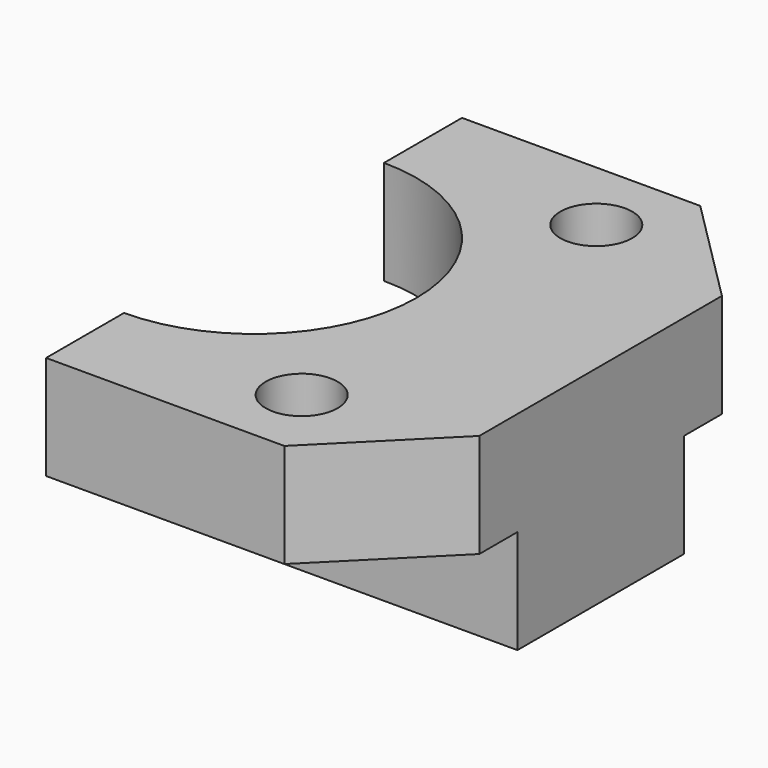
from build123d import *

# Parameters (mm, degrees)
F1_DEPTH = 12.192
F3_DEPTH = 20.321
F4_R     = 9.525
F5_DEPTH = 6.096
F7_D     = 4.2164


with BuildPart() as f1:
    # F0 (on Top) → F1 (new body)
    with BuildSketch(Plane.XY):
        with BuildLine():
            ThreePointArc((0, 6.5786), (6.5786, 0), (0, -6.5786))
            Line((0, -6.5786), (0, -15.24))
            Line((0, -15.24), (13.97, -15.24))
            Line((13.97, -15.24), (20.32, -8.89))
            Line((20.32, -8.89), (20.32, 8.89))
            Line((20.32, 8.89), (13.97, 15.24))
            Line((13.97, 15.24), (0, 15.24))
            Line((0, 15.24), (0, 6.5786))
        make_face()
    extrude(amount=F1_DEPTH)

    # F2 (on face) → F3 (cut, through all)
    with BuildSketch(Plane(origin=(0, 0, 0), x_dir=(0, -1, 0), z_dir=(-1, 0, 0))):
        Polygon((-6.096, 6.096), (-15.24, 6.096), (-15.24, -9.260692), (15.24, -9.260692), (15.24, 6.096), (6.096, 6.096), (6.096, -2.733779), (-6.096, -2.733779), align=None)
    extrude(amount=-F3_DEPTH, mode=Mode.SUBTRACT)

    # F4 (on face) → F5 (cut, through all)
    with BuildSketch(Plane.XY.offset(12.192)):
        Circle(F4_R)
    extrude(amount=-F5_DEPTH, mode=Mode.SUBTRACT)

    # F7 (through all)
    with Locations(Plane.XY.offset(12.192)):
        with Locations((11.43, 10.795), (11.43, -10.795)):
            Hole(F7_D / 2)


solid = f1.part
